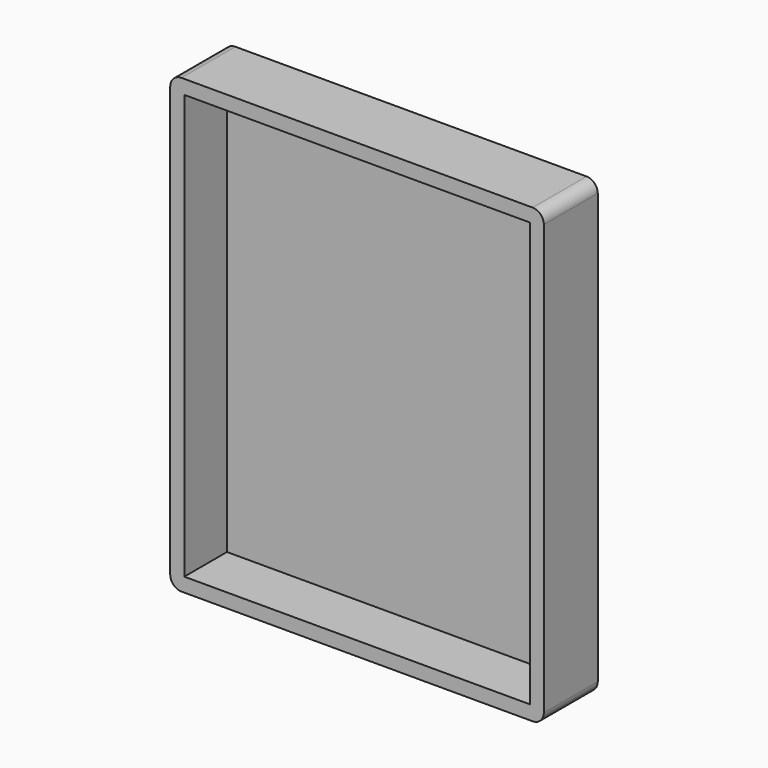
from build123d import *

# Parameters (mm, degrees)
F0_W     = 66.5
F0_H     = 80.5
F1_DEPTH = 12
F2_T     = -2.5
F3_R     = 2


with BuildPart() as f1:
    # F0 (on Front) → F1 (new body)
    with BuildSketch(Plane.XZ):
        with Locations((30.75, 37.75)):
            Rectangle(F0_W, F0_H)
        with Locations((30.75, 37.75)):
            Rectangle(F0_W, F0_H)
    extrude(amount=F1_DEPTH)

    # F2
    f2_openings = [f1.faces().sort_by_distance(p)[0] for p in [
        (30.75, -12, 37.75),
    ]]
    offset(amount=F2_T, openings=f2_openings)

    # F3
    f3_edges = [f1.edges().sort_by_distance(p)[0] for p in [
        (64, -6, 78),
        (-2.5, -6, 78),
        (64, -6, -2.5),
        (-2.5, -6, -2.5),
    ]]
    fillet(f3_edges, radius=F3_R)


solid = f1.part
